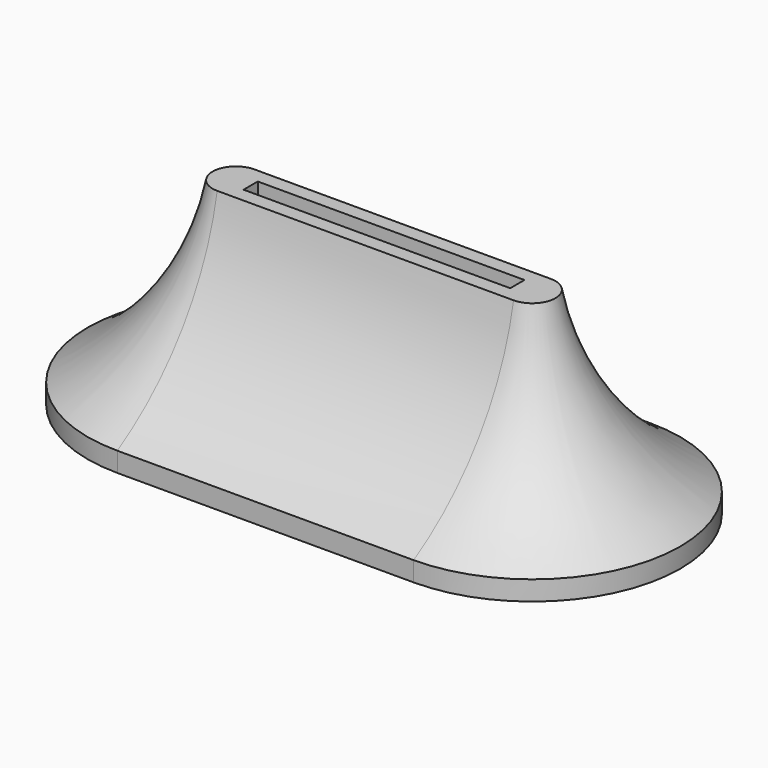
from build123d import *

# Parameters (mm, degrees)
F1_DEPTH = 25.4
F2_R     = 33.5189811659
F5_W     = 34.29
F5_H     = 2.286
F6_DEPTH = 22.225
F8_DEPTH = 0.1524


with BuildPart() as f1:
    # F0 (on Top) → F1 (new body)
    with BuildSketch(Plane.XY):
        with BuildLine():
            Line((0, -19.05), (0, 19.05))
            Line((0, 19.05), (-19.05, 19.05))
            ThreePointArc((-19.05, 19.05), (-38.1, 0), (-19.05, -19.05))
            Line((-19.05, -19.05), (0, -19.05))
        make_face()
    extrude(amount=F1_DEPTH)

    # F3: sweep along a path in F3_path
    with BuildLine(Plane(origin=(-19.05, -19.05, 25.4), x_dir=(0, 1, 0), z_dir=(0, 0, 1))) as f3_path:
        Line((0, -19.05), (0, 0))
        ThreePointArc((0, 0), (19.05, 19.05), (38.1, 0))
        Line((38.1, 0), (38.1, -19.05))
    # F2 (on Right) → F3 (sweep, cut)
    with BuildSketch(Plane.YZ):
        with Locations((-35.9534211457, 31.4643979073)):
            Circle(F2_R)
    sweep(path=f3_path.line, mode=Mode.SUBTRACT)

    # F4: F1 across face


with BuildPart() as f1_1:
    add(f1.part)
    add(f1.part.mirror(Plane(origin=(0, 0, 8.7269001071), x_dir=(0, 1, 0), z_dir=(1, 0, 0))))

    # F5 (on face) → F6 (cut)
    with BuildSketch(Plane.XY.offset(25.4)):
        Rectangle(F5_W, F5_H)
    extrude(amount=-F6_DEPTH, mode=Mode.SUBTRACT)

    # F7 (on face) → F8 (cut)
    with BuildSketch(Plane(origin=(0, 0, 0), x_dir=(1, 0, 0), z_dir=(0, 0, -1))):
        with BuildLine():
            ThreePointArc((19.05, -15.875), (34.925, 0), (19.05, 15.875))
            Line((19.05, 15.875), (-19.05, 15.875))
            ThreePointArc((-19.05, 15.875), (-34.925, 0), (-19.05, -15.875))
            Line((-19.05, -15.875), (19.05, -15.875))
        make_face()
    extrude(amount=-F8_DEPTH, mode=Mode.SUBTRACT)


solid = f1_1.part
